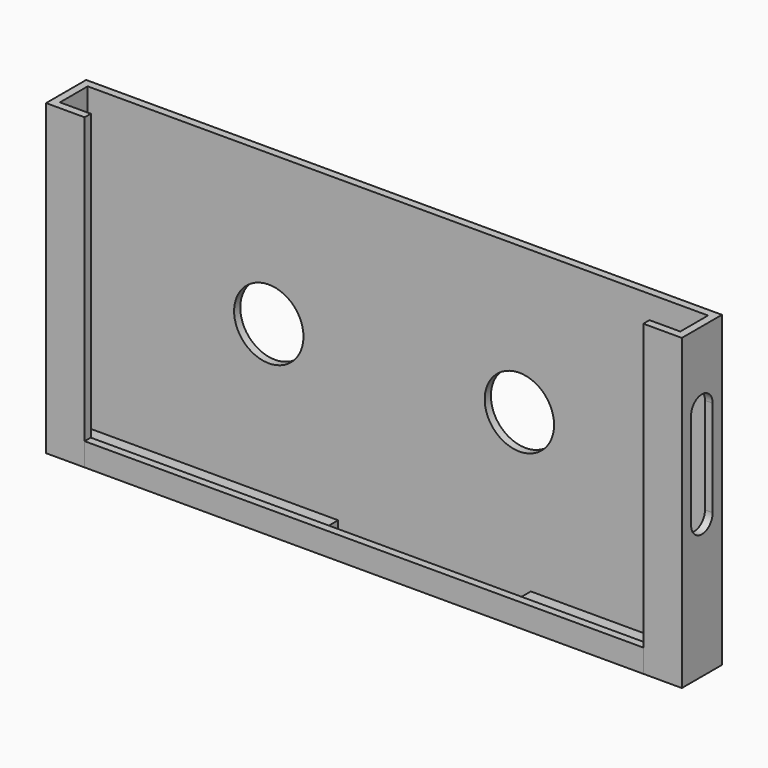
from build123d import *

# Parameters (mm, degrees)
F0_W      = 161
F0_H      = 2
F0_W_2    = 2
F0_H_2    = 9
F0_W_3    = 8
F1_DEPTH  = 80
F2_DEPTH  = 2
F0_W_4    = 145
F3_DEPTH  = 6
F4_W      = 7
F4_H      = 25
F5_DEPTH  = 2
F6_W      = 7
F6_H      = 25
F7_DEPTH  = 2
F8_R      = 9
F9_DEPTH  = 11.001
F10_W     = 2
F10_H     = 6
F10_H_2   = 11
F10_H_3   = 2
F11_DEPTH = 6
F13_DEPTH = 25
F15_DEPTH = 97.001
F16_W     = 50
F16_H     = 9
F17_DEPTH = 2


with BuildPart() as f1:
    # F0 (on Top) → F1 (new body)
    with BuildSketch(Plane.XY):
        with Locations((80.5, 10)):
            Rectangle(F0_W, F0_H)
        with Locations((162, 10)):
            Rectangle(F0_W_2, F0_H)
        with Locations((162, 4.5)):
            Rectangle(F0_W_2, F0_H_2)
        with Locations((162, -1)):
            Rectangle(F0_W_2, F0_H)
        with Locations((157, -1)):
            Rectangle(F0_W_3, F0_H)
        with Locations((-1, 10)):
            Rectangle(F0_W_2, F0_H)
        with Locations((-1, 4.5)):
            Rectangle(F0_W_2, F0_H_2)
        with Locations((-1, -1)):
            Rectangle(F0_W_2, F0_H)
        with Locations((4, -1)):
            Rectangle(F0_W_3, F0_H)
    extrude(amount=F1_DEPTH)

    # F4 (on face) → F5 (cut, through all)
    with BuildSketch(Plane(origin=(-2, 0, 0), x_dir=(0, -1, 0), z_dir=(-1, 0, 0))):
        with BuildLine():
            ThreePointArc((-1, 48), (-4.5, 51.5), (-8, 48))
            Line((-8, 48), (-1, 48))
        make_face()
        with Locations((-4.5, 35.5)):
            Rectangle(F4_W, F4_H)
        with BuildLine():
            Line((-1, 23), (-8, 23))
            ThreePointArc((-8, 23), (-4.5, 19.5), (-1, 23))
        make_face()
    extrude(amount=-F5_DEPTH, mode=Mode.SUBTRACT)

    # F6 (on face) → F7 (cut, through all)
    with BuildSketch(Plane.YZ.offset(163)):
        with BuildLine():
            ThreePointArc((8, 61), (4.5, 64.5), (1, 61))
            Line((1, 61), (8, 61))
        make_face()
        with Locations((4.5, 48.5)):
            Rectangle(F6_W, F6_H)
        with BuildLine():
            Line((8, 36), (1, 36))
            ThreePointArc((1, 36), (4.5, 32.5), (8, 36))
        make_face()
    extrude(amount=-F7_DEPTH, mode=Mode.SUBTRACT)

    # F8 (on Front) → F9 (cut, through all)
    with BuildSketch(Plane.XZ):
        with Locations((47, 41)):
            Circle(F8_R)
        with Locations((112.035342, 42)):
            Circle(F8_R)
    extrude(amount=-F9_DEPTH, mode=Mode.SUBTRACT)

    # F10 (on face) → F11 (join)
    with BuildSketch(Plane(origin=(0, 11, 0), x_dir=(-1, 0, 0), z_dir=(0, 1, 0))):
        with Locations((-94, 44)):
            Rectangle(F10_W, F10_H)
        with Locations((-94, 52.5)):
            Rectangle(F10_W, F10_H_2)
        with Locations((-94, 59)):
            Rectangle(F10_W, F10_H_3)
        Polygon((-93, 58), (-80.5, 58), (-68, 58), (-68, 60), (-93, 60), align=None)
        with Locations((-67, 59)):
            Rectangle(F10_W, F10_H_3)
        with Locations((-67, 52.5)):
            Rectangle(F10_W, F10_H_2)
        with Locations((-67, 44)):
            Rectangle(F10_W, F10_H)
    extrude(amount=F11_DEPTH)

    # F12 (on face) → F13 (join, through all)
    with BuildSketch(Plane(origin=(93, 0, 0), x_dir=(0, -1, 0), z_dir=(-1, 0, 0))):
        Polygon((-15, 58), (-17, 58), (-17, 41), (-15, 41), (-15, 47), align=None)
    extrude(amount=F13_DEPTH)

    # F14 (on face) → F15 (cut, through all)
    with BuildSketch(Plane.YZ.offset(95)):
        Polygon((17, 47), (11, 41), (17, 41), align=None)
    extrude(amount=-F15_DEPTH, mode=Mode.SUBTRACT)


with BuildPart() as f2:
    # F0 (on Top) → F2 (new body)
    with BuildSketch(Plane.XY):
        Polygon((0, 9), (0, 0), (8, 0), (153, 0), (161, 0), (161, 9), align=None)
    extrude(amount=F2_DEPTH)

    # F16 (on face) → F17 (cut, through all)
    with BuildSketch(Plane.XY):
        with Locations((90, 4.5)):
            Rectangle(F16_W, F16_H)
    extrude(amount=F17_DEPTH, mode=Mode.SUBTRACT)


with BuildPart() as f3:
    # F0 (on Top) → F3 (new body)
    with BuildSketch(Plane.XY):
        with Locations((80.5, -1)):
            Rectangle(F0_W_4, F0_H)
    extrude(amount=F3_DEPTH)


solid = Compound([f1.part, f2.part, f3.part])
